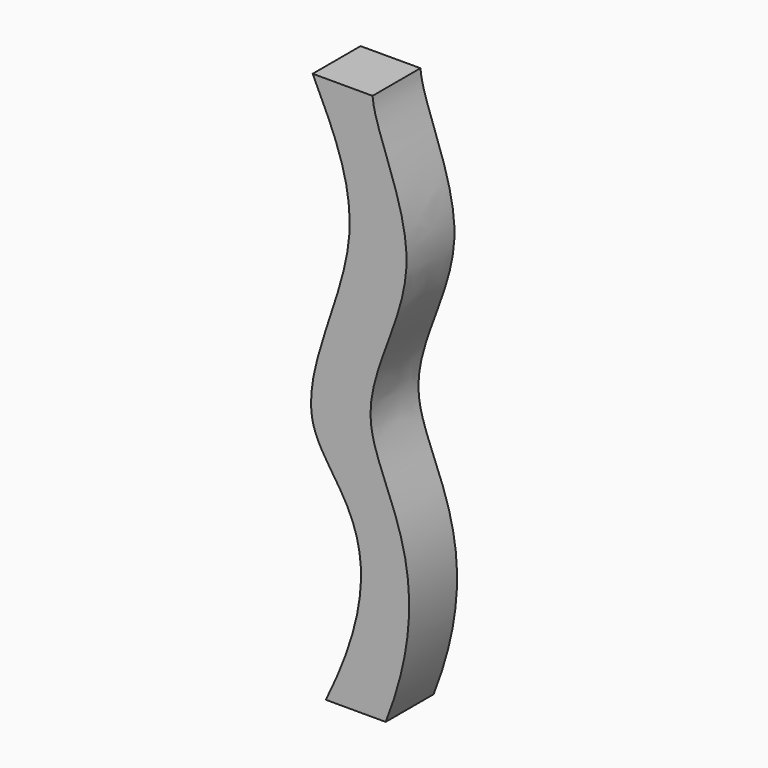
from build123d import *

# Parameters (mm, degrees)
F1_DEPTH = 12.7


with BuildPart() as f1:
    # F0 (on Front) → F1 (new body)
    with BuildSketch(Plane.XZ):
        with BuildLine():
            Line((-7.2104354505, 64.9336519148), (-19.9104354505, 64.9336519148))
            add(Edge.make_bspline(
                [(-19.9104354505, 64.9336519148), (-15.7132802628, 56.0632085429), (-5.9106524658, 37.0277046584), (-32.1139356626, -7.2974502585), (0, -16.1439919446), (-17.1173548772, -51.0757011357)],
                knots=[0, 0, 0, 0, 0.291755282, 0.6172924702, 1, 1, 1, 1], degree=3))
            Line((-17.1173548772, -51.0757011357), (-4.4173548772, -51.0757011357))
            add(Edge.make_bspline(
                [(-7.2104354505, 64.9336519148), (-6.7787963031, 58.4573862172), (7.4217896907, 35.0453648895), (-18.5181210996, 0.2633635943), (8.1407165943, -18.844790566), (-4.4173548772, -51.0757011357)],
                knots=[0, 0, 0, 0, 0.2923906198, 0.5987927811, 1, 1, 1, 1], degree=3))
        make_face()
    extrude(amount=F1_DEPTH)


solid = f1.part
